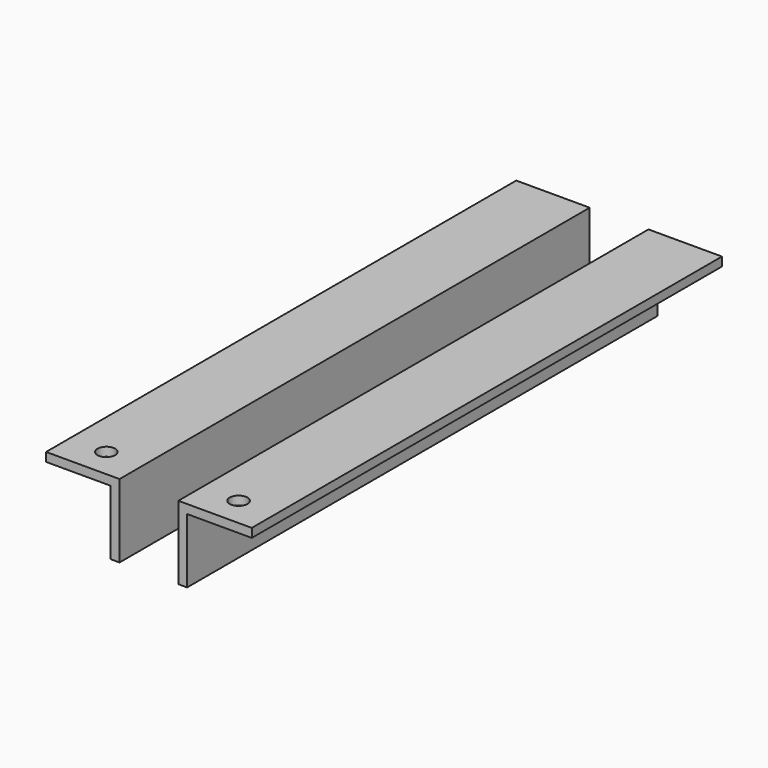
from build123d import *

# Parameters (mm, degrees)
F0_W     = 25
F0_H     = 200
F1_DEPTH = 3
F2_W     = 3
F2_H     = 200
F3_DEPTH = 22
F5_D     = 6
F5_DEPTH = 7


with BuildPart() as f1:
    # F0 (on Top) → F1 (new body)
    with BuildSketch(Plane.XY):
        with Locations((-32.5, -34.014946)):
            Rectangle(F0_W, F0_H)
        with Locations((12.5, -34.014946)):
            Rectangle(F0_W, F0_H)
    extrude(amount=-F1_DEPTH)

    # F2 (on face) → F3 (join)
    with BuildSketch(Plane(origin=(0, 0, -3), x_dir=(1, 0, 0), z_dir=(0, 0, -1))):
        with Locations((-21.5, 34.014946)):
            Rectangle(F2_W, F2_H)
        with Locations((1.5, 34.014946)):
            Rectangle(F2_W, F2_H)
    extrude(amount=F3_DEPTH)

    # F5
    with Locations(Plane(origin=(0, 0, -3), x_dir=(1, 0, 0), z_dir=(0, 0, -1))):
        with Locations((-32.5, 124.014946), (12.5, 124.014946)):
            Hole(F5_D / 2, depth=F5_DEPTH)


with BuildPart() as f6_1:
    # F6: copy of F1
    add(f1.part)


solid = f1.part
